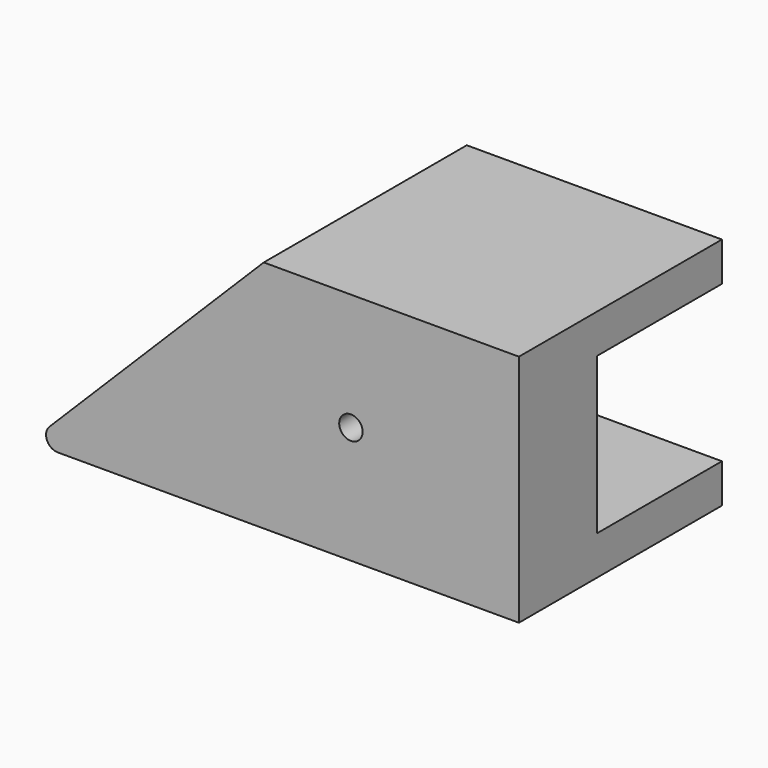
from build123d import *

# Parameters (mm, degrees)
PAD_DEPTH    = 20
SKETCH001_R  = 3
PAD001_DEPTH = 25
SKETCH002_R  = 3
POCKET_DEPTH = 79.427407
FILLET_R     = 2
FILLET001_R  = 3


with BuildPart() as part:
    # Sketch → Pad (new body, symmetric)
    with BuildSketch(Plane.XZ):
        with BuildLine():
            Line((0.908117, 17.87868), (-34.849242, -17.87868))
            ThreePointArc((-34.849242, -17.87868), (-39.742201, -21.14805), (-33.970563, -20))
            Line((-33.970563, -20), (43.029437, -20))
            Line((43.029437, -20), (43.029437, -30))
            Line((43.029437, -30), (-82.325902, -30))
            Line((-22.325902, 30), (-82.325902, -30))
            Line((43.029437, 30), (-22.325902, 30))
            Line((43.029437, 20), (43.029437, 30))
            Line((6.029437, 20), (43.029437, 20))
            ThreePointArc((6.029437, 20), (1.881387, 22.771639), (0.908117, 17.87868))
        make_face()
    extrude(amount=PAD_DEPTH, both=True)

    # Sketch001 → Pad001 (join)
    with BuildSketch(Plane.XZ.offset(20)):
        Polygon((43.029437, -20), (43.029437, 20), (43.029437, 30), (-22.325902, 30), (-82.325902, -30), (43.029437, -30), align=None)
        Circle(SKETCH001_R, mode=Mode.SUBTRACT)
    extrude(amount=PAD001_DEPTH)

    # Sketch002 → Pocket (cut, through all)
    with BuildSketch(Plane(origin=(0, 0, 0), x_dir=(0, 1, 0), z_dir=(0.707107, 0, -0.707107))):
        Circle(SKETCH002_R)
    extrude(amount=-POCKET_DEPTH, mode=Mode.SUBTRACT)

    # Fillet
    fillet_edges = [part.edges().sort_by_distance(p)[0] for p in [
        (-33.970563, 0, -20),
        (-34.849242, 0, -17.87868),
        (0.908117, 0, 17.87868),
        (6.029437, 0, 20),
    ]]
    fillet(fillet_edges, radius=FILLET_R)

    # Fillet001
    fillet001_edges = [part.edges().sort_by_distance(p)[0] for p in [
        (-82.325902, -32.5, -30),
        (-82.325902, 0, -30),
    ]]
    fillet(fillet001_edges, radius=FILLET001_R)


solid = part.part
